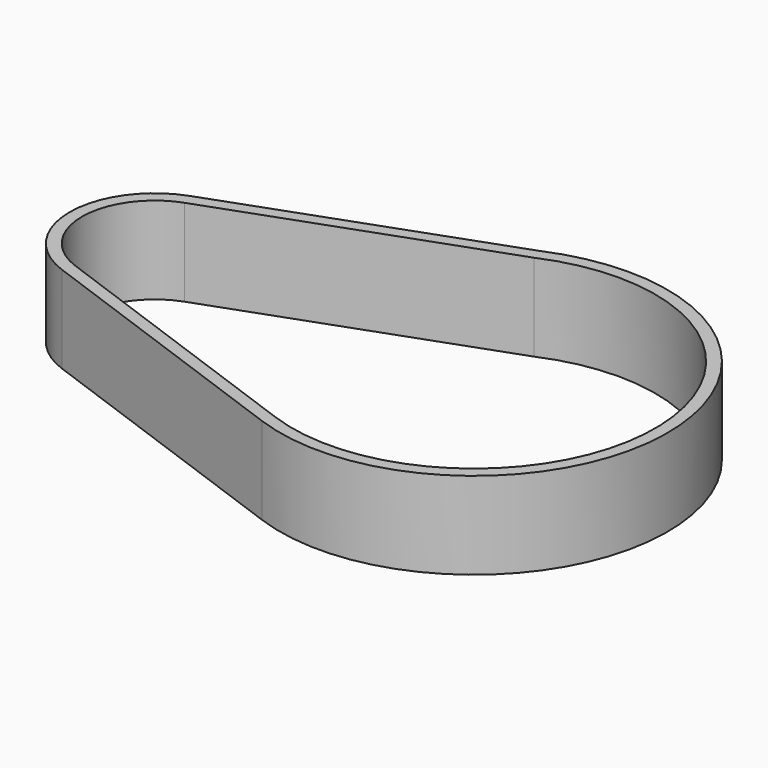
from build123d import *

# Parameters (mm, degrees)
F1_DEPTH = 6


with BuildPart() as f1:
    # F0 (on Top) → F1 (new body)
    with BuildSketch(Plane.XY):
        with BuildLine():
            ThreePointArc((-1.987259, 5.502118), (-5.849999, 0.003754), (-1.994318, -5.499563))
            Line((-1.994318, -5.499563), (17.448864, -12.550285))
            ThreePointArc((17.448864, -12.550285), (35.343629, 0.412396), (16.682535, 12.245287))
            Line((16.682535, 12.245287), (-1.987259, 5.502118))
        make_face()
        with BuildLine():
            ThreePointArc((-1.704545, -4.700481), (-4.999999, 0.003208), (-1.698512, 4.702665))
            Line((-1.698512, 4.702665), (16.996918, 11.455094))
            ThreePointArc((16.996918, 11.455094), (34.49362, 0.39932), (17.738636, -11.751203))
            Line((17.738636, -11.751203), (-1.704545, -4.700481))
        make_face(mode=Mode.SUBTRACT)
    extrude(amount=F1_DEPTH)


solid = f1.part
